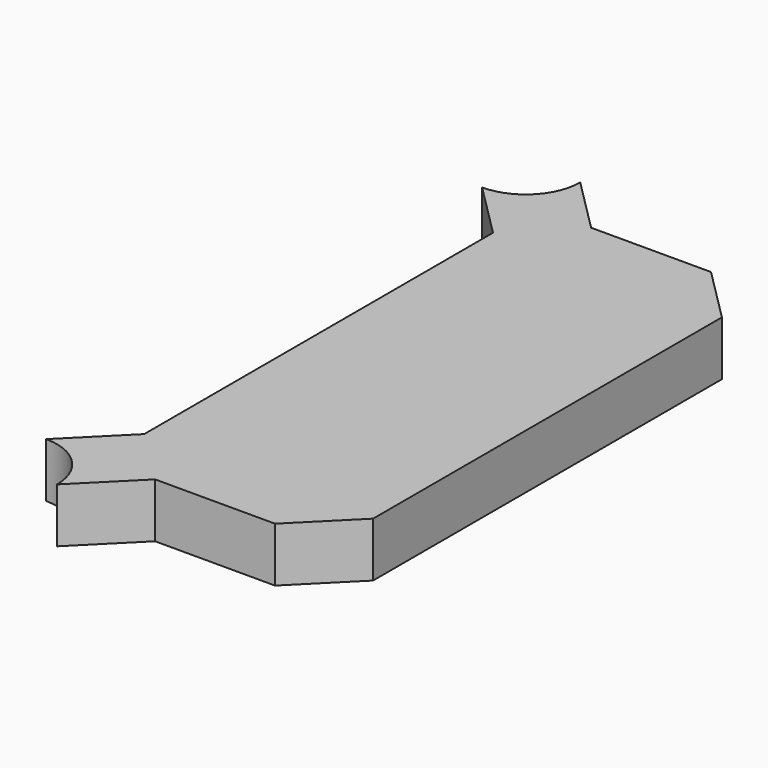
from build123d import *

# Parameters (mm, degrees)
PAD_DEPTH = 0.1


with BuildPart() as part:
    # Sketch → Pad (new body)
    with BuildSketch(Plane.XY):
        with BuildLine():
            Line((-0.5, 0.4), (-0.5, -0.4))
            Line((-0.5, -0.4), (-0.6, -0.5))
            Line((-0.6, -0.5), (-0.82, -0.5))
            Line((-0.82, -0.5), (-0.92, -0.6))
            ThreePointArc((-0.92, -0.6), (-0.949289, -0.529289), (-1.02, -0.5))
            Line((-1.02, -0.5), (-0.92, -0.4))
            Line((-0.92, -0.4), (-0.92, 0.4))
            Line((-0.92, 0.4), (-1.02, 0.5))
            ThreePointArc((-1.02, 0.5), (-0.949289, 0.529289), (-0.92, 0.6))
            Line((-0.92, 0.6), (-0.82, 0.5))
            Line((-0.82, 0.5), (-0.6, 0.5))
            Line((-0.6, 0.5), (-0.5, 0.4))
        make_face()
    extrude(amount=PAD_DEPTH)


solid = part.part
